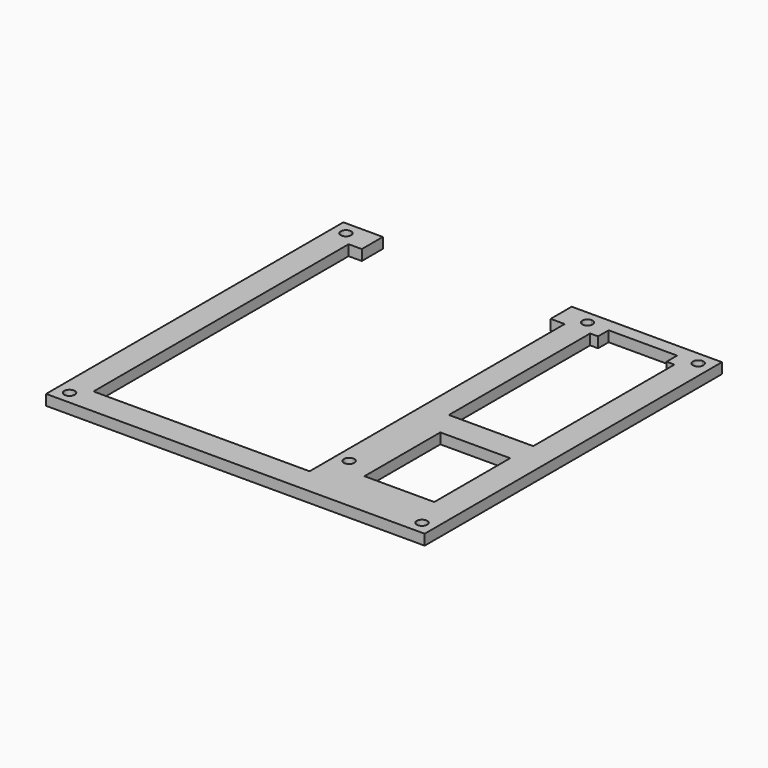
from build123d import *

# Parameters (mm, degrees)
F0_W     = 3
F0_H     = 5
F1_DEPTH = 4


with BuildPart() as f1:
    # F0 (on Top) → F1 (new body)
    with BuildSketch(Plane.XY):
        with BuildLine():
            Line((-228.3440142274, -137.3912245035), (-231.3440142274, -137.3912245035))
            Line((-231.3440142274, -137.3912245035), (-231.3440142274, -142.256315279))
            Line((-231.3440142274, -142.256315279), (-226.3440142274, -142.256315279))
            Line((-226.3440142274, -142.256315279), (-226.3440142274, -139.3912245035))
            ThreePointArc((-226.3440142274, -139.3912245035), (-227.7582277898, -138.8054380659), (-228.3440142274, -137.3912245035))
        make_face()
        with BuildLine():
            Line((-87.6802765131, -142.256315279), (-87.6802765131, -137.256315279))
            Line((-87.6802765131, -137.256315279), (-90.6802765131, -137.256315279))
            ThreePointArc((-90.6802765131, -137.256315279), (-91.2660629507, -138.6705288414), (-92.6802765131, -139.256315279))
            Line((-92.6802765131, -139.256315279), (-92.6802765131, -142.256315279))
            Line((-92.6802765131, -142.256315279), (-87.6802765131, -142.256315279))
        make_face()
        with BuildLine():
            Line((-87.6802765131, -1.256315279), (-92.6802765131, -1.256315279))
            Line((-92.6802765131, -1.256315279), (-92.6802765131, -4.256315279))
            ThreePointArc((-92.6802765131, -4.256315279), (-91.2660629507, -4.8421017166), (-90.6802765131, -6.256315279))
            Line((-90.6802765131, -6.256315279), (-87.6802765131, -6.256315279))
            Line((-87.6802765131, -6.256315279), (-87.6802765131, -1.256315279))
        make_face()
        with BuildLine():
            Line((-134.6802765131, -1.256315279), (-139.6802765131, -1.256315279))
            Line((-139.6802765131, -1.256315279), (-139.6802765131, -6.256315279))
            Line((-139.6802765131, -6.256315279), (-136.6802765131, -6.256315279))
            ThreePointArc((-136.6802765131, -6.256315279), (-136.0944900755, -4.8421017166), (-134.6802765131, -4.256315279))
            Line((-134.6802765131, -4.256315279), (-134.6802765131, -1.256315279))
        make_face()
        with BuildLine():
            Line((-221.3440142274, -132.256315279), (-231.3440142274, -132.256315279))
            Line((-231.3440142274, -132.256315279), (-231.3440142274, -137.3912245035))
            Line((-231.3440142274, -137.3912245035), (-228.3440142274, -137.3912245035))
            ThreePointArc((-228.3440142274, -137.3912245035), (-226.3440142274, -135.3912245035), (-224.3440142274, -137.3912245035))
            ThreePointArc((-224.3440142274, -137.3912245035), (-224.929800665, -138.8054380659), (-226.3440142274, -139.3912245035))
            Line((-226.3440142274, -139.3912245035), (-226.3440142274, -142.256315279))
            Line((-226.3440142274, -142.256315279), (-221.3440142274, -142.256315279))
            Line((-221.3440142274, -142.256315279), (-221.3440142274, -132.256315279))
        make_face()
        Polygon((-217.9440142274, -132.256315279), (-221.3440142274, -132.256315279), (-221.3440142274, -142.256315279), (-139.3440142274, -142.256315279), (-139.4949736476, -132.256315279), (-142.7440142274, -132.256315279), (-147.4240142274, -132.256315279), (-151.4240142274, -132.256315279), align=None)
        Polygon((-216.3440142274, -11.256315279), (-216.3440142274, -1.256315279), (-221.3440142274, -1.256315279), (-221.3440142274, -6.256315279), (-221.3440142274, -11.256315279), (-217.9440142274, -11.256315279), align=None)
        Polygon((-139.6802765131, -6.256315279), (-139.6802765131, -1.256315279), (-144.6802765131, -1.256315279), (-144.6802765131, -11.256315279), (-142.7440142274, -11.256315279), (-139.6802765131, -11.256315279), align=None)
        Polygon((-134.3440142274, -124.756315279), (-139.3440142274, -124.756315279), (-139.3440142274, -128.856315279), (-139.3440142274, -132.256315279), (-139.4949736476, -132.256315279), (-139.3440142274, -142.256315279), (-129.6802765131, -142.256315279), (-129.6802765131, -124.756315279), align=None)
        with BuildLine():
            Line((-221.3440142274, -6.256315279), (-221.3440142274, -1.256315279))
            Line((-221.3440142274, -1.256315279), (-231.3440142274, -1.256315279))
            Line((-231.3440142274, -1.256315279), (-231.3440142274, -132.256315279))
            Line((-231.3440142274, -132.256315279), (-221.3440142274, -132.256315279))
            Line((-221.3440142274, -132.256315279), (-221.3440142274, -128.856315279))
            Line((-221.3440142274, -128.856315279), (-221.3440142274, -14.656315279))
            Line((-221.3440142274, -14.656315279), (-221.3440142274, -11.256315279))
            Line((-221.3440142274, -11.256315279), (-226.3440142274, -11.256315279))
            Line((-226.3440142274, -11.256315279), (-226.3440142274, -8.256315279))
            ThreePointArc((-226.3440142274, -8.256315279), (-227.7582277898, -4.8421017166), (-224.3440142274, -6.256315279))
            Line((-224.3440142274, -6.256315279), (-221.3440142274, -6.256315279))
        make_face()
        with BuildLine():
            Line((-129.6802765131, -1.256315279), (-134.6802765131, -1.256315279))
            Line((-134.6802765131, -1.256315279), (-134.6802765131, -4.256315279))
            ThreePointArc((-134.6802765131, -4.256315279), (-133.2660629507, -4.8421017166), (-132.6802765131, -6.256315279))
            ThreePointArc((-132.6802765131, -6.256315279), (-134.6802765131, -8.256315279), (-136.6802765131, -6.256315279))
            Line((-136.6802765131, -6.256315279), (-139.6802765131, -6.256315279))
            Line((-139.6802765131, -6.256315279), (-139.6802765131, -11.256315279))
            Line((-139.6802765131, -11.256315279), (-139.4949736476, -11.256315279))
            Line((-139.4949736476, -11.256315279), (-139.3440142274, -11.256315279))
            Line((-139.3440142274, -11.256315279), (-129.6802765131, -11.256315279))
            Line((-129.6802765131, -11.256315279), (-129.6802765131, -6.256315279))
            Line((-129.6802765131, -6.256315279), (-129.6802765131, -1.256315279))
        make_face()
        with BuildLine():
            Line((-92.6802765131, -1.256315279), (-129.6802765131, -1.256315279))
            Line((-129.6802765131, -1.256315279), (-129.6802765131, -6.256315279))
            Line((-129.6802765131, -6.256315279), (-126.6802765131, -6.256315279))
            Line((-126.6802765131, -6.256315279), (-100.6802765131, -6.256315279))
            Line((-100.6802765131, -6.256315279), (-97.6802765131, -6.256315279))
            Line((-97.6802765131, -6.256315279), (-97.6802765131, -11.256315279))
            Line((-97.6802765131, -11.256315279), (-97.6802765131, -14.596315279))
            Line((-97.6802765131, -14.596315279), (-97.6802765131, -74.916315279))
            Line((-97.6802765131, -74.916315279), (-97.6802765131, -78.256315279))
            Line((-97.6802765131, -78.256315279), (-101.0202765131, -78.256315279))
            Line((-101.0202765131, -78.256315279), (-126.3402765131, -78.256315279))
            Line((-126.3402765131, -78.256315279), (-129.6802765131, -78.256315279))
            Line((-129.6802765131, -78.256315279), (-129.6802765131, -108.756315279))
            Line((-129.6802765131, -108.756315279), (-129.6802765131, -111.756315279))
            Line((-129.6802765131, -111.756315279), (-129.6802765131, -114.756315279))
            Line((-129.6802765131, -114.756315279), (-129.6802765131, -124.756315279))
            Line((-129.6802765131, -124.756315279), (-129.6802765131, -142.256315279))
            Line((-129.6802765131, -142.256315279), (-92.6802765131, -142.256315279))
            Line((-92.6802765131, -142.256315279), (-92.6802765131, -139.256315279))
            ThreePointArc((-92.6802765131, -139.256315279), (-94.0944900755, -135.8421017166), (-90.6802765131, -137.256315279))
            Line((-90.6802765131, -137.256315279), (-87.6802765131, -137.256315279))
            Line((-87.6802765131, -137.256315279), (-87.6802765131, -6.256315279))
            Line((-87.6802765131, -6.256315279), (-90.6802765131, -6.256315279))
            ThreePointArc((-90.6802765131, -6.256315279), (-94.0944900755, -7.6705288414), (-92.6802765131, -4.256315279))
            Line((-92.6802765131, -4.256315279), (-92.6802765131, -1.256315279))
        make_face()
        Polygon((-98.1802765131, -124.5755243927), (-124.6802765131, -124.5755243927), (-124.6802765131, -90.2755243927), (-124.6802765131, -88.5755243927), (-122.9802765131, -88.5755243927), (-99.8802765131, -88.5755243927), (-98.1802765131, -88.5755243927), (-98.1802765131, -90.2755243927), align=None, mode=Mode.SUBTRACT)
        Polygon((-129.6802765131, -14.056315279), (-129.6802765131, -11.256315279), (-139.3440142274, -11.256315279), (-139.3440142274, -14.656315279), (-139.3440142274, -114.756315279), (-129.6802765131, -114.756315279), (-129.6802765131, -111.756315279), (-129.6802765131, -108.756315279), (-129.6802765131, -78.256315279), (-129.6802765131, -74.916315279), (-129.6802765131, -27.956315279), (-129.6802765131, -27.456315279), (-129.6802765131, -14.596315279), align=None)
        with BuildLine():
            Line((-139.3440142274, -119.756315279), (-139.3440142274, -124.756315279))
            Line((-139.3440142274, -124.756315279), (-134.3440142274, -124.756315279))
            Line((-134.3440142274, -124.756315279), (-134.3440142274, -121.756315279))
            ThreePointArc((-134.3440142274, -121.756315279), (-135.7582277898, -121.1705288414), (-136.3440142274, -119.756315279))
            Line((-136.3440142274, -119.756315279), (-139.3440142274, -119.756315279))
        make_face()
        with BuildLine():
            Line((-129.6802765131, -114.756315279), (-139.3440142274, -114.756315279))
            Line((-139.3440142274, -114.756315279), (-139.3440142274, -119.756315279))
            Line((-139.3440142274, -119.756315279), (-136.3440142274, -119.756315279))
            ThreePointArc((-136.3440142274, -119.756315279), (-134.3440142274, -117.756315279), (-132.3440142274, -119.756315279))
            ThreePointArc((-132.3440142274, -119.756315279), (-132.929800665, -121.1705288414), (-134.3440142274, -121.756315279))
            Line((-134.3440142274, -121.756315279), (-134.3440142274, -124.756315279))
            Line((-134.3440142274, -124.756315279), (-129.6802765131, -124.756315279))
            Line((-129.6802765131, -124.756315279), (-129.6802765131, -114.756315279))
        make_face()
        with BuildLine():
            Line((-221.3440142274, -11.256315279), (-221.3440142274, -6.256315279))
            Line((-221.3440142274, -6.256315279), (-224.3440142274, -6.256315279))
            ThreePointArc((-224.3440142274, -6.256315279), (-224.929800665, -7.6705288414), (-226.3440142274, -8.256315279))
            Line((-226.3440142274, -8.256315279), (-226.3440142274, -11.256315279))
            Line((-226.3440142274, -11.256315279), (-221.3440142274, -11.256315279))
        make_face()
        Polygon((-126.6802765131, -6.256315279), (-129.6802765131, -6.256315279), (-129.6802765131, -11.256315279), (-126.8802765131, -11.256315279), (-126.6802765131, -11.256315279), align=None)
        with Locations((-99.1802765131, -8.756315279)):
            Rectangle(F0_W, F0_H)
    extrude(amount=F1_DEPTH)


solid = f1.part
